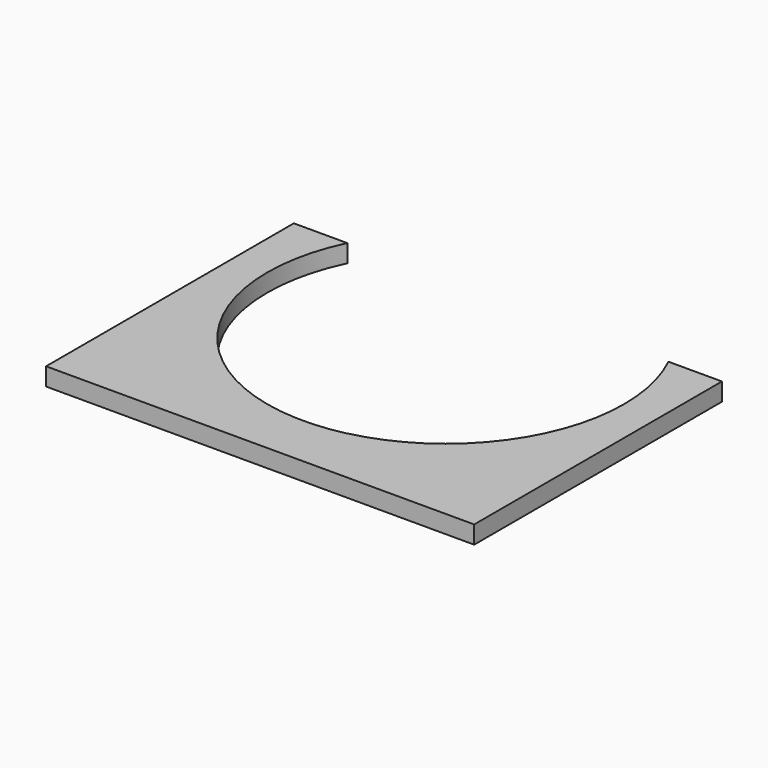
from build123d import *

# Parameters (mm, degrees)
F1_DEPTH = 5


with BuildPart() as f1:
    # F0 (on Top) → F1 (new body)
    with BuildSketch(Plane.XY):
        with BuildLine():
            ThreePointArc((45, 21.794495), (0, -50), (-45, 21.794495))
            Line((-45, 21.794495), (-60, 21.794495))
            Line((-60, 21.794495), (-60, -65))
            Line((-60, -65), (0, -65))
            Line((0, -65), (60, -65))
            Line((60, -65), (60, 21.794495))
            Line((60, 21.794495), (45, 21.794495))
        make_face()
    extrude(amount=F1_DEPTH)


solid = f1.part
